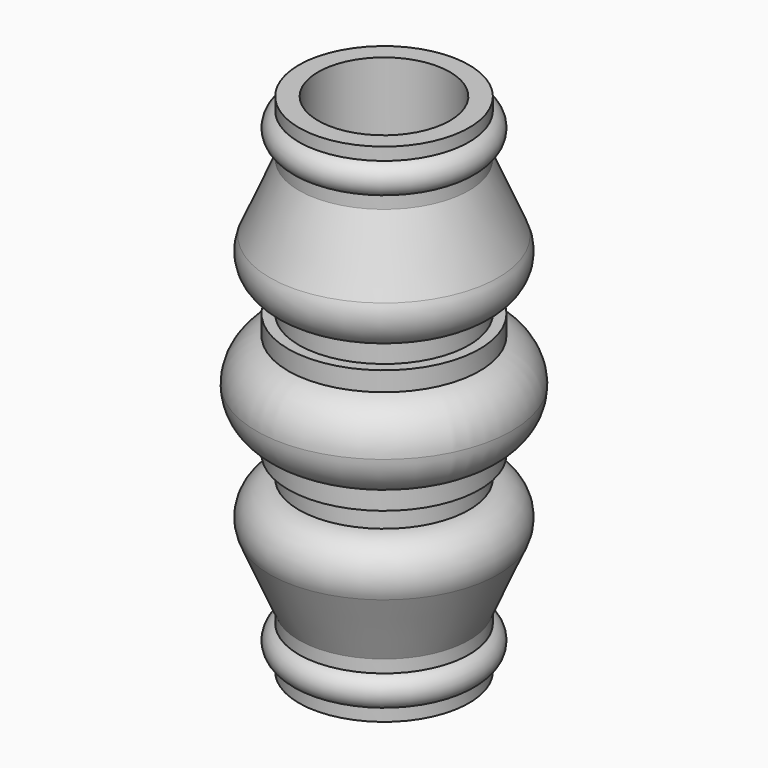
from build123d import *

# Parameters (mm, degrees)
F3_DEPTH = 120


with BuildPart() as f1:
    # F0 (on Front) → F1 (revolve)
    with BuildSketch(Plane.XZ):
        Polygon((-40, 0), (-20, 0), (-20, 3), (-37.5, 3), (-40, 3), (-40, 2.964466), align=None)
        with BuildLine():
            Line((-37.5, 3), (-20, 3))
            Line((-20, 3), (-20, 10))
            Line((-20, 10), (-40, 10.035534))
            Line((-40, 10.035534), (-40, 10))
            Line((-40, 10), (-40.102781, 9.997497))
            ThreePointArc((-40.102781, 9.997497), (-42.4996, 6.445203), (-40, 2.964466))
            Line((-40, 2.964466), (-40, 3))
            Line((-40, 3), (-37.5, 3))
        make_face()
        Polygon((-40, 10.035534), (-20, 10), (-20, 13), (-40, 13), align=None)
        with BuildLine():
            ThreePointArc((-40, 10.035534), (-40.051529, 10.016891), (-40.102781, 9.997497))
            Line((-40.102781, 9.997497), (-40, 10))
            Line((-40, 10), (-40, 10.035534))
        make_face()
        with BuildLine():
            Line((-40, 13), (-20, 13))
            Line((-20, 13), (-20, 40))
            Line((-20, 40), (-39.5, 40))
            ThreePointArc((-39.5, 40), (-39.750122, 39.996089), (-40, 39.98436))
            ThreePointArc((-40, 39.98436), (-46.319944, 36.181908), (-46.842901, 28.824813))
            Line((-46.842901, 28.824813), (-40, 13))
        make_face()
        with BuildLine():
            Line((-39.5, 24), (-40, 24))
            Line((-40, 24), (-40, 24.01564))
            ThreePointArc((-40, 24.01564), (-39.750122, 24.003911), (-39.5, 24))
        make_face(mode=Mode.SUBTRACT)
        Polygon((-39.5, 40), (-20, 40), (-20, 45), (-40, 45), (-40, 40), align=None)
        Polygon((-40, 45), (-20, 45), (-20, 49.55228), (-42.5, 49.55228), (-42.5, 45), align=None)
        with BuildLine():
            ThreePointArc((-40, 39.98436), (-39.750122, 39.996089), (-39.5, 40))
            Line((-39.5, 40), (-40, 40))
            Line((-40, 40), (-40, 39.98436))
        make_face()
        with BuildLine():
            Line((-42.5, 49.55228), (-20, 49.55228))
            Line((-20, 49.55228), (-20, 69.55228))
            Line((-20, 69.55228), (-42.5, 69.55228))
            ThreePointArc((-42.5, 69.55228), (-47.900185, 65.789919), (-50, 59.55228))
            ThreePointArc((-50, 59.55228), (-47.900185, 53.314642), (-42.5, 49.55228))
        make_face()
        Polygon((-42.5, 69.55228), (-20, 69.55228), (-20, 74.104561), (-40, 74.104561), (-42.5, 74.104561), align=None)
        Polygon((-40, 74.104561), (-20, 74.104561), (-20, 79.104561), (-39.5, 79.104561), (-40, 79.104561), align=None)
        with BuildLine():
            Line((-39.5, 79.104561), (-20, 79.104561))
            Line((-20, 79.104561), (-20, 106.104561))
            Line((-20, 106.104561), (-40, 106.104561))
            Line((-40, 106.104561), (-46.842901, 90.279748))
            ThreePointArc((-46.842901, 90.279748), (-46.319944, 82.922652), (-40, 79.120201))
            ThreePointArc((-40, 79.120201), (-39.750122, 79.108472), (-39.5, 79.104561))
        make_face()
        with BuildLine():
            Line((-40, 79.120201), (-40, 79.104561))
            Line((-40, 79.104561), (-39.5, 79.104561))
            ThreePointArc((-39.5, 79.104561), (-39.750122, 79.108472), (-40, 79.120201))
        make_face()
        Polygon((-40, 106.104561), (-20, 106.104561), (-20, 109.104561), (-37.5, 109.104561), (-40, 109.104561), (-40, 109.069027), align=None)
        with BuildLine():
            Line((-37.5, 109.104561), (-20, 109.104561))
            Line((-20, 109.104561), (-20, 116.104561))
            Line((-20, 116.104561), (-37.5, 116.104561))
            Line((-37.5, 116.104561), (-38.75, 116.104561))
            Line((-38.75, 116.104561), (-40, 116.104561))
            Line((-40, 116.104561), (-40, 116.140095))
            ThreePointArc((-40, 116.140095), (-42.4996, 112.659358), (-40.102781, 109.107064))
            Line((-40.102781, 109.107064), (-40, 109.104561))
            Line((-40, 109.104561), (-37.5, 109.104561))
        make_face()
        with BuildLine():
            ThreePointArc((-40.102781, 109.107064), (-40.051529, 109.08767), (-40, 109.069027))
            Line((-40, 109.069027), (-40, 109.104561))
            Line((-40, 109.104561), (-40.102781, 109.107064))
        make_face()
        Polygon((-37.5, 116.104561), (-20, 116.104561), (-20, 119.104561), (-40, 119.104561), (-40, 116.140095), (-40, 116.104561), (-38.75, 116.104561), align=None)
    revolve(axis=Axis((-20, 0, 59.55228), (0, 0, 1)))

    # F2 (on Top) → F3 (cut)
    with BuildSketch(Plane.XY):
        with BuildLine():
            ThreePointArc((-35.5, 0), (-20, -15.5), (-4.5, 0))
            Line((-4.5, 0), (-35.5, 0))
        make_face()
        with BuildLine():
            Line((-35.5, 0), (-4.5, 0))
            ThreePointArc((-4.5, 0), (-20, 15.5), (-35.5, 0))
        make_face()
    extrude(amount=F3_DEPTH, mode=Mode.SUBTRACT)


solid = f1.part
